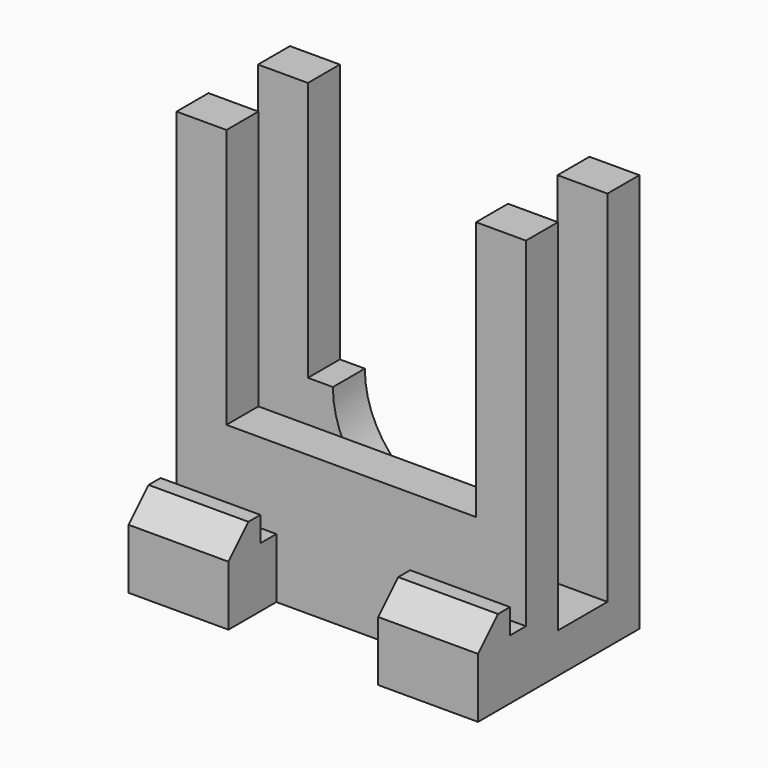
from build123d import *

# Parameters (mm, degrees)
F1_DEPTH      = 35
F2_W          = 25
F2_H          = 26
F3_DEPTH      = 10.001
F3_DEPTH_BACK = 10.201
F4_W          = 15
F4_H          = 6
F4_H_2        = 2.5
F5_DEPTH      = 6
F6_R          = 10
F7_DEPTH      = 4


with BuildPart() as f1:
    # F0 (on Right) → F1 (new body)
    with BuildSketch(Plane.YZ):
        Polygon((1.6723675691, 40), (-2.3276324309, 40), (-2.3276324309, 6), (-2.3276324309, 0), (11.8723675691, 0), (11.8723675691, 40), (7.8723675691, 40), (7.8723675691, 4), (1.6723675691, 4), align=None)
        Polygon((-2.3276324309, 0), (-2.3276324309, 6), (-4.3276324309, 6), (-4.3276324309, 8.5), (-5.8276324309, 8.5), (-8.3276324309, 6), (-8.3276324309, 0), align=None)
    extrude(amount=F1_DEPTH)

    # F2 (on face) → F3 (cut, two sides)
    with BuildSketch(Plane(origin=(0, 1.6723675691, 0), x_dir=(-1, 0, 0), z_dir=(0, 1, 0))) as f3_sk:
        with Locations((-17.5, 27)):
            Rectangle(F2_W, F2_H)
    extrude(amount=-F3_DEPTH, mode=Mode.SUBTRACT)
    extrude(f3_sk.sketch, amount=F3_DEPTH_BACK, mode=Mode.SUBTRACT)

    # F4 (on face) → F5 (cut, through all)
    with BuildSketch(Plane.XZ.offset(8.3276324309)):
        with Locations((17.5, 3)):
            Rectangle(F4_W, F4_H)
        with Locations((17.5, 7.25)):
            Rectangle(F4_W, F4_H_2)
    extrude(amount=-F5_DEPTH, mode=Mode.SUBTRACT)

    # F6 (on face) → F7 (cut, through all)
    with BuildSketch(Plane(origin=(0, 11.8723675691, 0), x_dir=(-1, 0, 0), z_dir=(0, 1, 0))):
        with Locations((-17.5, 14)):
            Circle(F6_R)
    extrude(amount=-F7_DEPTH, mode=Mode.SUBTRACT)


solid = f1.part
